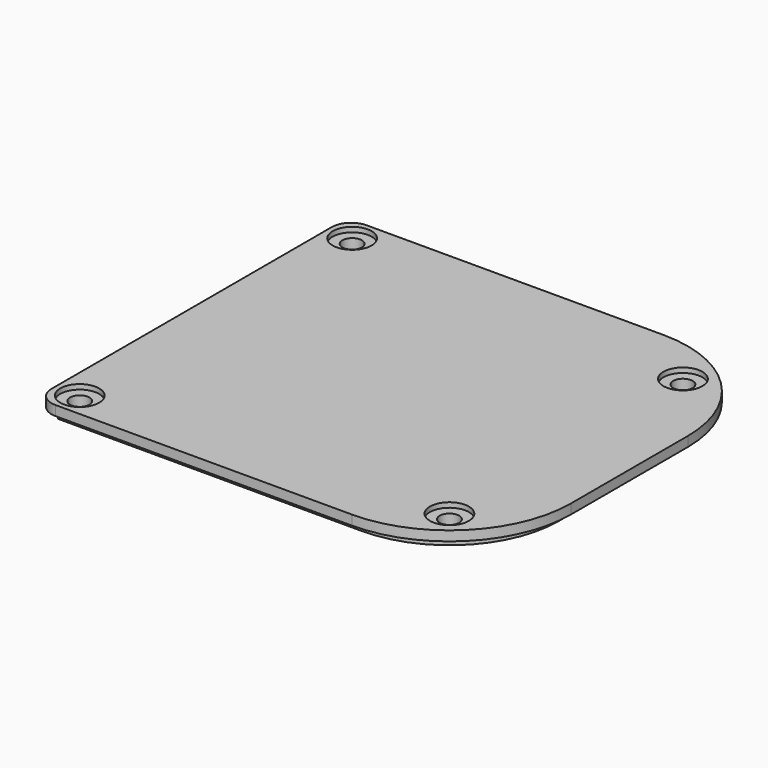
from build123d import *

# Parameters (mm, degrees)
SKETCH004_R     = 2
PAD003_DEPTH    = 2
PAD004_DEPTH    = 2
SKETCH006_W     = 2.5
SKETCH006_H     = 48
PAD005_DEPTH    = 6
SKETCH007_R     = 2
POCKET001_DEPTH = 8.001
SKETCH008_R     = 4
POCKET002_DEPTH = 1
FILLET001_R     = 4


with BuildPart() as part:
    # Sketch004 → Pad003 (new body)
    with BuildSketch(Plane.XY.offset(53)):
        with BuildLine():
            Line((20, 40), (-45, 40))
            Line((-45, 40), (-45, -40))
            Line((-45, -40), (20, -40))
            ThreePointArc((20, -40), (37.67767, -32.67767), (45, -15))
            Line((45, -15), (45, 15))
            ThreePointArc((45, 15), (37.67767, 32.67767), (20, 40))
        make_face()
        with Locations((-40, 35)):
            Circle(SKETCH004_R, mode=Mode.SUBTRACT)
        with Locations((32, 30)):
            Circle(SKETCH004_R, mode=Mode.SUBTRACT)
        with Locations((-40, -35)):
            Circle(SKETCH004_R, mode=Mode.SUBTRACT)
        with Locations((32, -30)):
            Circle(SKETCH004_R, mode=Mode.SUBTRACT)
    extrude(amount=PAD003_DEPTH)

    # Sketch005 (on Face7 of Pad003) → Pad004 (join)
    with BuildSketch(Plane(origin=(0, 0, 53), x_dir=(1, 0, 0), z_dir=(0, 0, -1))):
        with BuildLine():
            Line((-42.5, 37.5), (-42.5, -37.5))
            Line((-42.5, -37.5), (20, -37.5))
            ThreePointArc((20, -37.5), (35.909903, -30.909903), (42.5, -15))
            Line((42.5, 15), (42.5, -15))
            ThreePointArc((42.5, 15), (35.909903, 30.909903), (20, 37.5))
            Line((-42.5, 37.5), (20, 37.5))
        make_face()
    extrude(amount=PAD004_DEPTH)

    # Sketch006 (on Face4 of Pad004) → Pad005 (join)
    with BuildSketch(Plane(origin=(0, 0, 53), x_dir=(1, 0, 0), z_dir=(0, 0, -1))):
        with Locations((-43.75, 0)):
            Rectangle(SKETCH006_W, SKETCH006_H)
    extrude(amount=PAD005_DEPTH)

    # Sketch007 (on Face5 of Pad005) → Pocket001 (cut, through all)
    with BuildSketch(Plane.XY.offset(55)):
        with Locations((-40, 35)):
            Circle(SKETCH007_R)
        with Locations((-40, -35)):
            Circle(SKETCH007_R)
        with Locations((32, -30)):
            Circle(SKETCH007_R)
        with Locations((32, 30)):
            Circle(SKETCH007_R)
    extrude(amount=-POCKET001_DEPTH, mode=Mode.SUBTRACT)

    # Sketch008 (on Face5 of Pocket001) → Pocket002 (cut)
    with BuildSketch(Plane.XY.offset(55)):
        with Locations((32, 30)):
            Circle(SKETCH008_R)
        with Locations((-40, 35)):
            Circle(SKETCH008_R)
        with Locations((32, -30)):
            Circle(SKETCH008_R)
        with Locations((-40, -35)):
            Circle(SKETCH008_R)
    extrude(amount=-POCKET002_DEPTH, mode=Mode.SUBTRACT)

    # Fillet001
    fillet001_edges = [part.edges().sort_by_distance(p)[0] for p in [
        (-45, 40, 54),
        (-45, -40, 54),
    ]]
    fillet(fillet001_edges, radius=FILLET001_R)


solid = part.part
